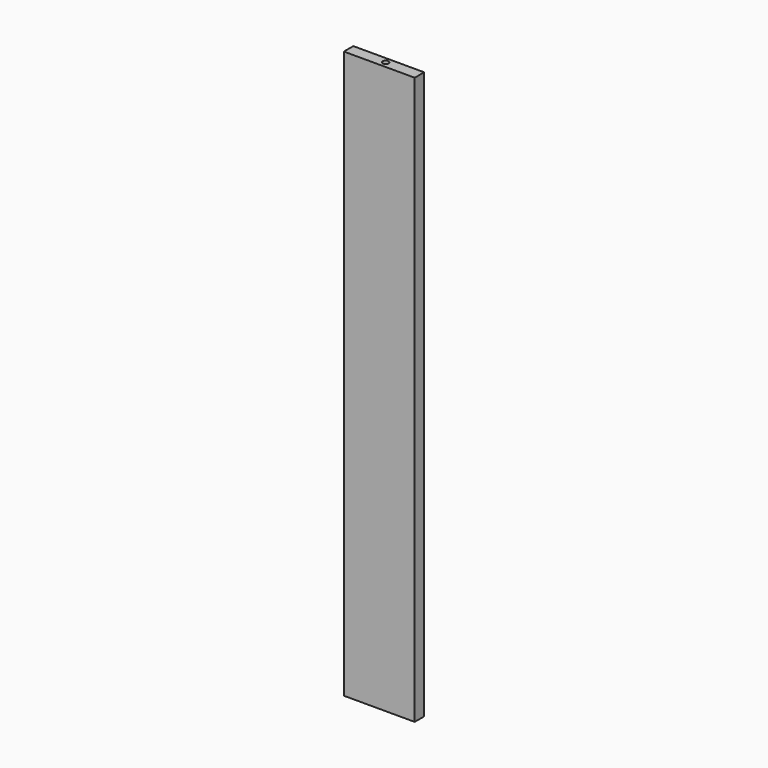
from build123d import *

# Parameters (mm, degrees)
F0_W     = 76.2
F0_H     = 609.6
F1_DEPTH = 12.7
F2_R     = 3.175
F3_DEPTH = 25.4
F4_R     = 3.175
F5_DEPTH = 25.4


with BuildPart() as f1:
    # F0 (on Front) → F1 (new body)
    with BuildSketch(Plane.XZ):
        with Locations((-38.1, 304.8)):
            Rectangle(F0_W, F0_H)
    extrude(amount=F1_DEPTH)

    # F2 (on face) → F3 (cut)
    with BuildSketch(Plane(origin=(0, 0, 0), x_dir=(1, 0, 0), z_dir=(0, 0, -1))):
        with Locations((-41.308764, 5.938285)):
            Circle(F2_R)
    extrude(amount=-F3_DEPTH, mode=Mode.SUBTRACT)

    # F4 (on face) → F5 (cut)
    with BuildSketch(Plane.XY.offset(609.6)):
        with Locations((-36.50542, -6.075523)):
            Circle(F4_R)
    extrude(amount=-F5_DEPTH, mode=Mode.SUBTRACT)


solid = f1.part
